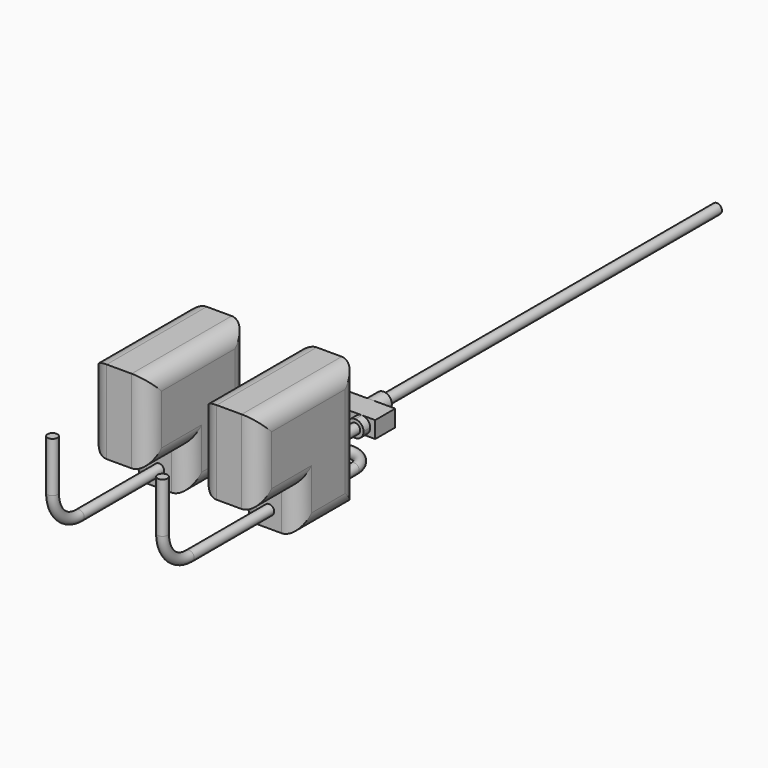
from build123d import *

# Parameters (mm, degrees)
F0_R      = 3
F0_R_2    = 2
F1_DEPTH  = 250
F2_R      = 5
F2_R_2    = 3
F2_R_3    = 2
F3_DEPTH  = 10
F4_R      = 2
F5_DEPTH  = 15
F6_R      = 3
F7_DEPTH  = 5
F8_R      = 3
F12_W     = 35
F12_H     = 75
F12_R     = 3
F13_DEPTH = 75
F14_W     = 35
F14_H     = 25
F15_DEPTH = 30
F16_R     = 10
F18_R     = 3


with BuildPart() as f1:
    # F0 (on Front) → F1 (new body)
    with BuildSketch(Plane.XZ):
        Circle(F0_R)
        Circle(F0_R_2, mode=Mode.SUBTRACT)
    extrude(amount=F1_DEPTH)

    # F2 (on face) → F3 (join)
    with BuildSketch(Plane.XZ.offset(250)):
        Circle(F2_R)
        Circle(F2_R_2, mode=Mode.SUBTRACT)
        Circle(F2_R_2)
        Circle(F2_R_3, mode=Mode.SUBTRACT)
    extrude(amount=F3_DEPTH)

    # F4 (on face) → F5 (join)
    with BuildSketch(Plane.XZ.offset(260)):
        with BuildLine():
            ThreePointArc((0, -5), (-5, 9.4e-09), (1.89e-08, 5))
            Line((1.89e-08, 5), (-15, 5))
            Line((-15, 5), (-15, -5))
            Line((-15, -5), (0, -5))
        make_face()
        with BuildLine():
            ThreePointArc((5, 0), (3.5355339126, 3.5355338993), (1.89e-08, 5))
            ThreePointArc((1.89e-08, 5), (-5, 9.4e-09), (0, -5))
            ThreePointArc((0, -5), (3.5355339059, -3.5355339059), (5, 0))
        make_face()
        Circle(F4_R, mode=Mode.SUBTRACT)
        with BuildLine():
            Line((15, -5), (15, 5))
            Line((15, 5), (1.89e-08, 5))
            ThreePointArc((1.89e-08, 5), (3.5355339126, 3.5355338993), (5, 0))
            ThreePointArc((5, 0), (3.5355339059, -3.5355339059), (0, -5))
            Line((0, -5), (15, -5))
        make_face()
        Circle(F4_R)
    extrude(amount=F5_DEPTH)

    # F6 (on face) → F7 (join)
    with BuildSketch(Plane.XZ.offset(275)):
        with BuildLine():
            ThreePointArc((-6.9999999883, -5), (-3.4644660899, -3.5355339018), (-2, 0))
            ThreePointArc((-2, 0), (-3.4644660915, 3.5355339034), (-6.9999999928, 5))
            ThreePointArc((-6.9999999928, 5), (-12, -2.2e-09), (-6.9999999883, -5))
        make_face()
        with Locations((-7, 0)):
            Circle(F6_R, mode=Mode.SUBTRACT)
        with BuildLine():
            ThreePointArc((12, 0), (10.5355339059, 3.5355339059), (7, 5))
            ThreePointArc((7, 5), (2, -8.4e-09), (7.0000000168, -5))
            ThreePointArc((7.0000000168, -5), (10.5355339119, -3.5355339), (12, 0))
        make_face()
        with Locations((7, 0)):
            Circle(F6_R, mode=Mode.SUBTRACT)
    extrude(amount=F7_DEPTH)

    # F10: sweep along a path in F9
    with BuildLine(Plane.XY) as f10_path:
        Line((-7, -275), (-7, -288))
        ThreePointArc((-7, -288), (-10.5147186258, -296.4852813742), (-19, -300))
        Line((-19, -300), (-20, -300))
        ThreePointArc((-20, -300), (-28.4852813742, -303.5147186258), (-32, -312))
        Line((-32, -312), (-32, -332))
    # F8 (on face) → F10 (sweep)
    with BuildSketch(Plane.XZ.offset(275)):
        with Locations((-7, 0)):
            Circle(F8_R)
    sweep(path=f10_path.line)

    # F11: F1 across plane


with BuildPart() as f1_1:
    add(f1.part)
    add(f1.part.mirror(Plane.YZ))

    # F12 (on face) → F13 (join)
    with BuildSketch(Plane.XZ.offset(332)):
        with Locations((-33, 32.5)):
            Rectangle(F12_W, F12_H)
        with Locations((-32, 0)):
            Circle(F12_R, mode=Mode.SUBTRACT)
        with Locations((33, 32.5)):
            Rectangle(F12_W, F12_H)
        with Locations((-32, 0)):
            Circle(F12_R)
    extrude(amount=F13_DEPTH)

    # F14 (on face) → F15 (cut)
    with BuildSketch(Plane.XZ.offset(407)):
        with Locations((-33, 7.5)):
            Rectangle(F14_W, F14_H)
        with Locations((33, 7.5)):
            Rectangle(F14_W, F14_H)
    extrude(amount=-F15_DEPTH, mode=Mode.SUBTRACT)

    # F16
    f16_edges = [f1_1.edges().sort_by_distance(p)[0] for p in [
        (-50.5, -332, 32.5),
        (-50.5, -354.5, -5),
        (-50.5, -377, 7.5),
        (-50.5, -392, 20),
        (-50.5, -407, 45),
        (-50.5, -369.5, 70),
        (-15.5, -332, 32.5),
        (-15.5, -369.5, 70),
        (-15.5, -407, 45),
        (-15.5, -392, 20),
        (-15.5, -377, 7.5),
        (-15.5, -354.5, -5),
        (50.5, -332, 32.5),
        (50.5, -369.5, 70),
        (50.5, -407, 45),
        (50.5, -392, 20),
        (50.5, -377, 7.5),
        (50.5, -354.5, -5),
        (15.5, -332, 32.5),
        (15.5, -354.5, -5),
        (15.5, -377, 7.5),
        (15.5, -392, 20),
        (15.5, -407, 45),
        (15.5, -369.5, 70),
    ]]
    fillet(f16_edges, radius=F16_R)

    # F20: sweep along a path in F19
    with BuildLine(Plane(origin=(-33, 0, 0), x_dir=(0, -1, 0), z_dir=(-1, 0, 0))) as f20_path:
        Line((377, 5), (437, 5))
        ThreePointArc((437, 5), (451.1421356237, 10.8578643763), (457, 25))
        Line((457, 25), (457, 55))
    # F18 (on face) → F20 (sweep)
    with BuildSketch(Plane.XZ.offset(377)):
        with Locations((-33, 5)):
            Circle(F18_R)
    sweep(path=f20_path.line)

    # F21: F1 across plane


with BuildPart() as f1_2:
    add(f1_1.part)
    add(f1_1.part.mirror(Plane.YZ))


solid = f1_2.part
